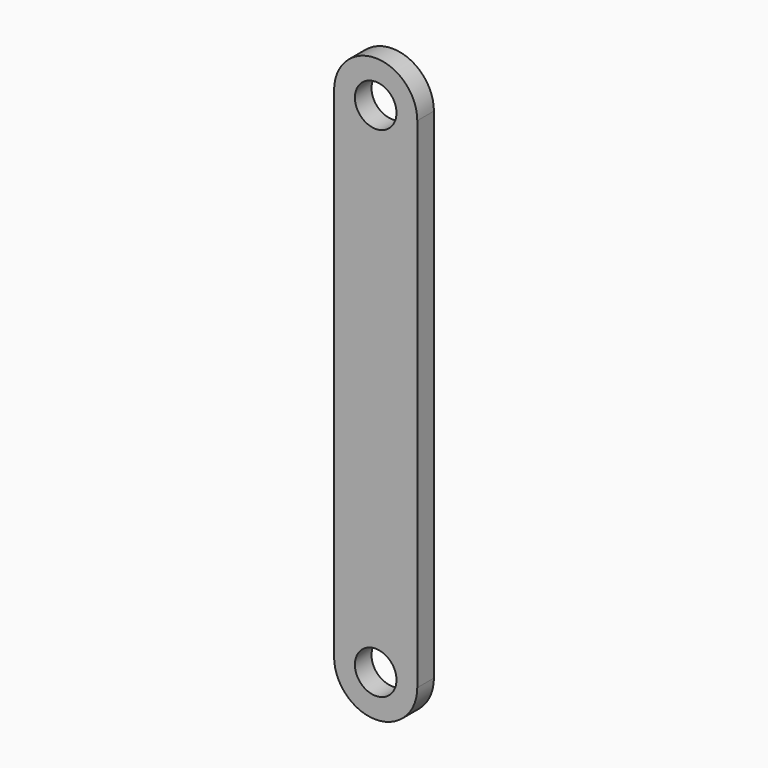
from build123d import *

# Parameters (mm, degrees)
F1_DEPTH = 5
F2_R     = 5
F3_DEPTH = 25


with BuildPart() as f1:
    # F0 (on Front) → F1 (new body)
    with BuildSketch(Plane.XZ):
        with BuildLine():
            ThreePointArc((-10, 60), (0, 50), (10, 60))
            ThreePointArc((10, 60), (0, 70), (-10, 60))
        make_face()
        with BuildLine():
            Line((10, -60), (10, 60))
            ThreePointArc((10, 60), (0, 50), (-10, 60))
            Line((-10, 60), (-10, -60))
            ThreePointArc((-10, -60), (0, -50), (10, -60))
        make_face()
        with BuildLine():
            ThreePointArc((-10, -60), (0, -70), (10, -60))
            ThreePointArc((10, -60), (0, -50), (-10, -60))
        make_face()
    extrude(amount=F1_DEPTH)

    # F2 (on face) → F3 (cut)
    with BuildSketch(Plane.XZ.offset(5)):
        with Locations((0, 60)):
            Circle(F2_R)
        with Locations((0, -60)):
            Circle(F2_R)
    extrude(amount=-F3_DEPTH, mode=Mode.SUBTRACT)


solid = f1.part
